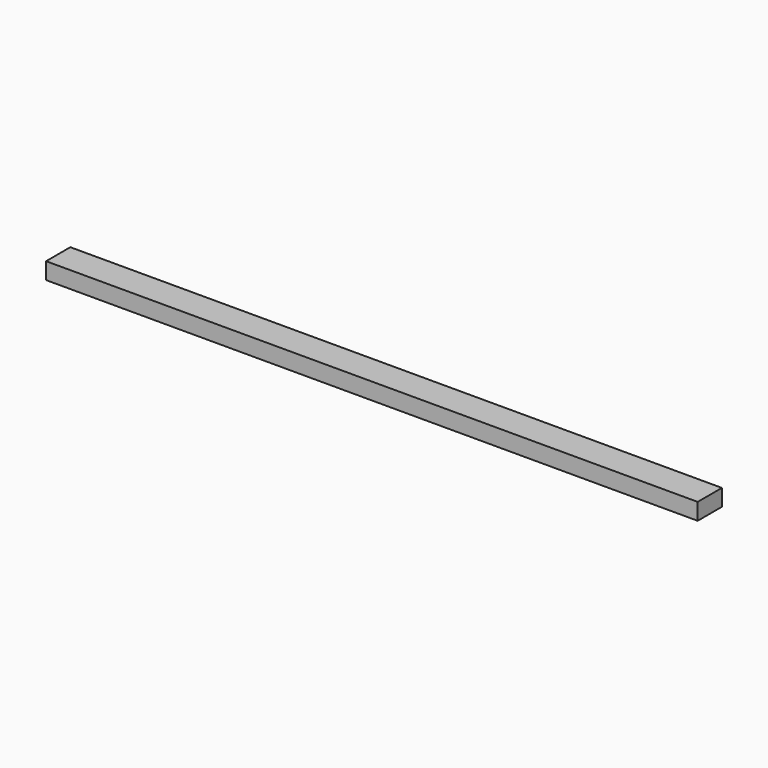
from build123d import *

# Parameters (mm, degrees)
F0_W     = 10
F0_H     = 8
F1_DEPTH = 860


with BuildPart() as f1:
    # F0 (on Right) → F1 (new body)
    with BuildSketch(Plane.YZ):
        with Locations((-25.646479, 41.875974)):
            Rectangle(F0_W, F0_H)
        Polygon((9.353521, 49.875974), (-30.646479, 49.875974), (-30.646479, 45.875974), (-20.646479, 45.875974), (-20.646479, 37.875974), (-30.646479, 37.875974), (-30.646479, 27.875974), (9.353521, 27.875974), align=None)
    extrude(amount=F1_DEPTH)


solid = f1.part
